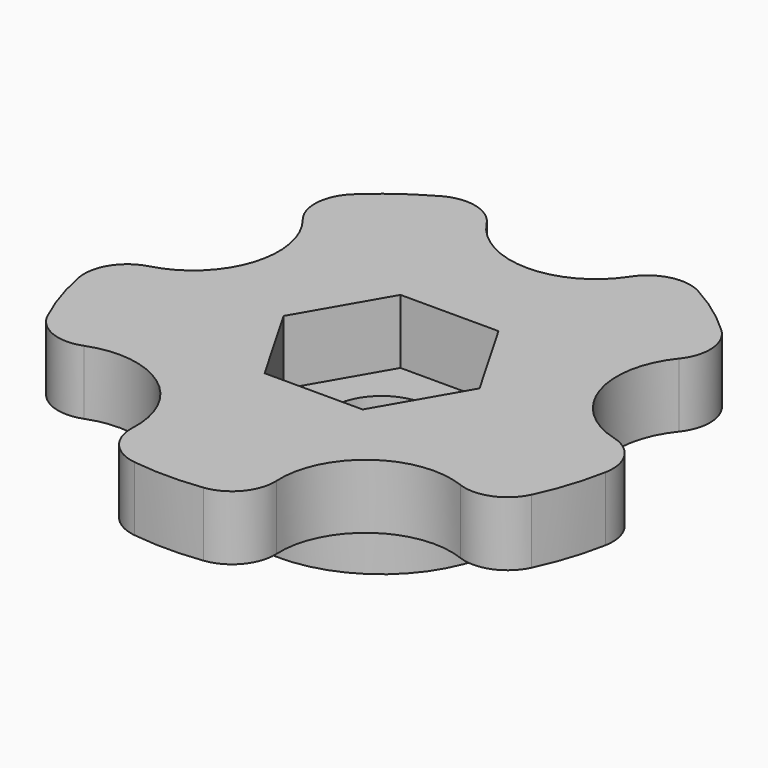
from build123d import *

# Parameters (mm, degrees)
SKETCH_R           = 6
PAD_DEPTH          = 4
SKETCH001_R        = 12.5
PAD001_DEPTH       = 3
SKETCH002_R        = 4
POCKET_DEPTH       = 3
POLARPATTERN_COUNT = 5
FILLET_R           = 2
SKETCH003_R        = 2.31
POCKET001_DEPTH    = 3
POCKET001_FACE25_R = 6
POCKET002_DEPTH    = 1
POCKET002_FACE26_R = 2.31
POCKET003_DEPTH    = 1.5
POCKET003_FACE26_R = 2.31
POCKET004_DEPTH    = 1.501
SKETCH005_R        = 6
SKETCH005_R_2      = 2.31
PAD002_DEPTH       = 3


with BuildPart() as part:
    # Sketch → Pad (new body)
    with BuildSketch(Plane.XY):
        Circle(SKETCH_R)
        Polygon((-2.286307, -3.96), (2.286307, -3.96), (4.572614, 0), (2.286307, 3.96), (-2.286307, 3.96), (-4.572614, 0), align=None, mode=Mode.SUBTRACT)
    extrude(amount=PAD_DEPTH)

    # Sketch001 (on Face9 of Pad) → Pad001 (join)
    with BuildSketch(Plane.XY.offset(4)):
        Circle(SKETCH001_R)
    extrude(amount=PAD001_DEPTH)

    # Sketch002 (on Face3 of Pad001) → Pocket (cut)
    with BuildSketch(Plane.XY.offset(7)):
        with Locations((0, 12.5)):
            Circle(SKETCH002_R)
    pocket = extrude(amount=-POCKET_DEPTH, mode=Mode.SUBTRACT)

    # PolarPattern: Pocket ×5 about axis
    polarpattern_axis = Axis((0, 0, 0), (0, 0, 1))
    for i in range(1, POLARPATTERN_COUNT):
        add(pocket.rotate(polarpattern_axis, i * 360 / POLARPATTERN_COUNT), mode=Mode.SUBTRACT)

    # Fillet
    fillet_edges = [part.edges().sort_by_distance(p)[0] for p in [
        (-12.499674, -0.090275, 5.5),
        (-10.059387, 7.420158, 5.5),
        (-3.948468, 11.86, 5.5),
        (3.948468, 11.86, 5.5),
        (-3.776755, -11.915793, 5.5),
        (-10.165511, -7.27409, 5.5),
        (10.165511, -7.27409, 5.5),
        (3.776755, -11.915793, 5.5),
        (10.059387, 7.420158, 5.5),
        (12.499674, -0.090275, 5.5),
    ]]
    fillet(fillet_edges, radius=FILLET_R)

    # Sketch003 (on Face31 of Fillet) → Pocket001 (cut)
    with BuildSketch(Plane(origin=(0, 0, 4), x_dir=(1, 0, 0), z_dir=(0, 0, -1))):
        Circle(SKETCH003_R)
    extrude(amount=-POCKET001_DEPTH, mode=Mode.SUBTRACT)

    # Pocket001 Face25 → Pocket002 (cut)
    with BuildSketch(Plane(origin=(0, 0, 0), x_dir=(0, -1, 0), z_dir=(0, 0, -1))):
        Circle(POCKET001_FACE25_R)
        Polygon((0, 4.572614), (3.96, 2.286307), (3.96, -2.286307), (0, -4.572614), (-3.96, -2.286307), (-3.96, 2.286307), align=None, mode=Mode.SUBTRACT)
    extrude(amount=-POCKET002_DEPTH, mode=Mode.SUBTRACT)

    # Pocket002 Face26 → Pocket003 (cut)
    with BuildSketch(Plane(origin=(0, 0, 4), x_dir=(0, -1, 0), z_dir=(0, 0, -1))):
        Polygon((0, 4.572614), (-3.96, 2.286307), (-3.96, -2.286307), (0, -4.572614), (3.96, -2.286307), (3.96, 2.286307), align=None)
        Circle(POCKET002_FACE26_R, mode=Mode.SUBTRACT)
    extrude(amount=-POCKET003_DEPTH, mode=Mode.SUBTRACT)

    # Pocket003 Face26 → Pocket004 (cut, through all)
    with BuildSketch(Plane(origin=(0, 0, 5.5), x_dir=(0, -1, 0), z_dir=(0, 0, -1))):
        Polygon((0, 4.572614), (-3.96, 2.286307), (-3.96, -2.286307), (0, -4.572614), (3.96, -2.286307), (3.96, 2.286307), align=None)
        Circle(POCKET003_FACE26_R, mode=Mode.SUBTRACT)
    extrude(amount=-POCKET004_DEPTH, mode=Mode.SUBTRACT)

    # Sketch005 (on Face30 of Pocket004) → Pad002 (join)
    with BuildSketch(Plane(origin=(0, 0, 1), x_dir=(1, 0, 0), z_dir=(0, 0, -1))):
        Circle(SKETCH005_R)
        Circle(SKETCH005_R_2, mode=Mode.SUBTRACT)
    extrude(amount=-PAD002_DEPTH)


solid = part.part
